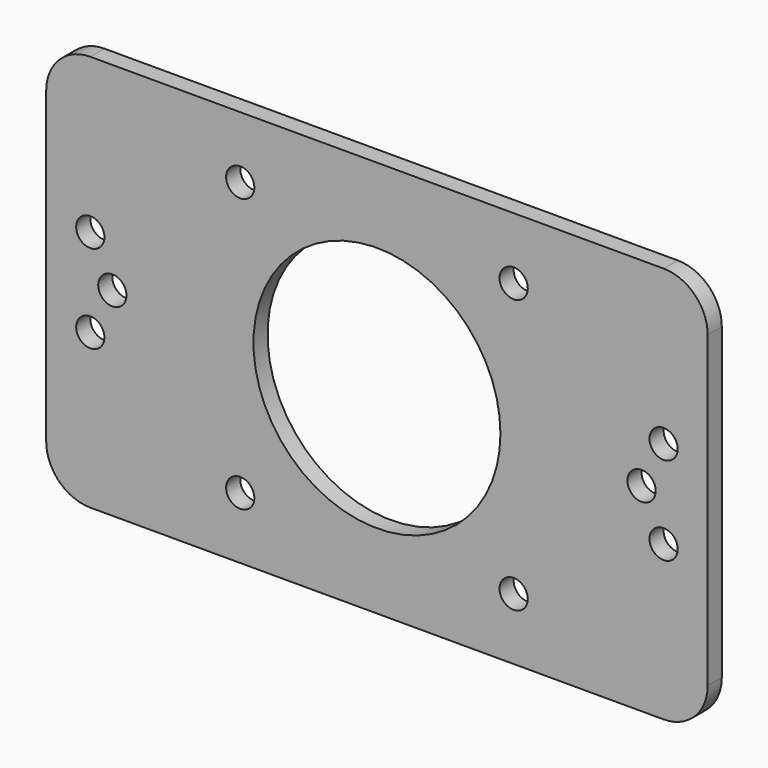
from build123d import *

# Parameters (mm, degrees)
F0_R     = 1.6
F0_R_2   = 14
F1_DEPTH = 2


with BuildPart() as f1:
    # F0 (on Front) → F1 (new body)
    with BuildSketch(Plane.XZ):
        with BuildLine():
            ThreePointArc((0, 5), (1.464466, 1.464466), (5, 0))
            Line((5, 0), (70, 0))
            ThreePointArc((70, 0), (73.535534, 1.464466), (75, 5))
            Line((75, 5), (75, 40))
            ThreePointArc((75, 40), (73.535534, 43.535534), (70, 45))
            Line((70, 45), (5, 45))
            ThreePointArc((5, 45), (1.464466, 43.535534), (0, 40))
            Line((0, 40), (0, 5))
        make_face()
        with Locations((22, 7)):
            Circle(F0_R, mode=Mode.SUBTRACT)
        with Locations((5, 17.5)):
            Circle(F0_R, mode=Mode.SUBTRACT)
        with Locations((53, 7)):
            Circle(F0_R, mode=Mode.SUBTRACT)
        with Locations((70, 17.5)):
            Circle(F0_R, mode=Mode.SUBTRACT)
        with Locations((7.5, 22.5)):
            Circle(F0_R, mode=Mode.SUBTRACT)
        with Locations((5, 27.5)):
            Circle(F0_R, mode=Mode.SUBTRACT)
        with Locations((22, 38)):
            Circle(F0_R, mode=Mode.SUBTRACT)
        with Locations((37.5, 22.5)):
            Circle(F0_R_2, mode=Mode.SUBTRACT)
        with Locations((67.5, 22.5)):
            Circle(F0_R, mode=Mode.SUBTRACT)
        with Locations((70, 27.5)):
            Circle(F0_R, mode=Mode.SUBTRACT)
        with Locations((53, 38)):
            Circle(F0_R, mode=Mode.SUBTRACT)
    extrude(amount=F1_DEPTH)


solid = f1.part
